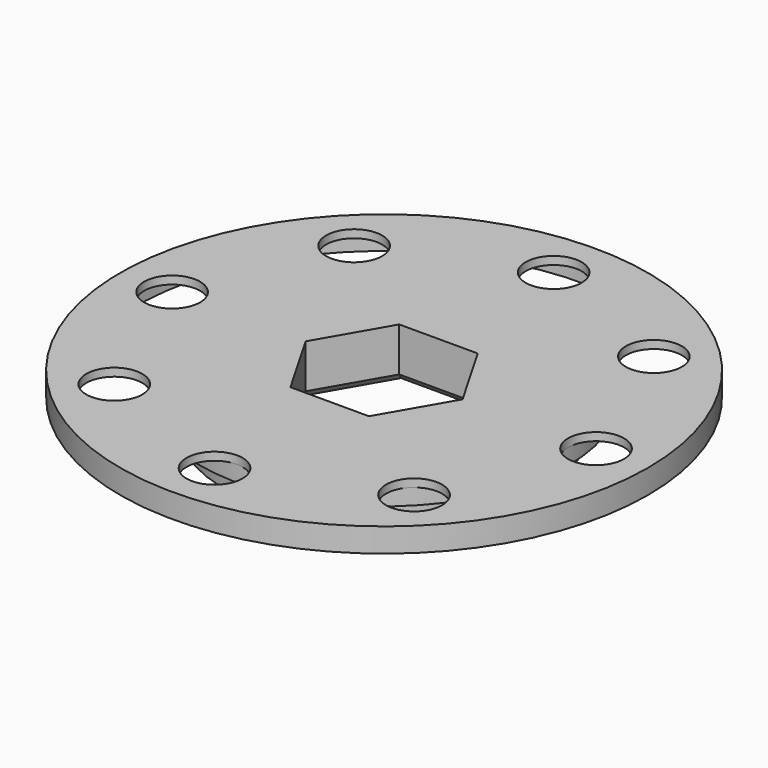
from build123d import *

# Parameters (mm, degrees)
SKETCH_R        = 20
PAD_DEPTH       = 6.5
SKETCH001_R     = 33
SKETCH001_R_2   = 20
PAD001_DEPTH    = 3
SKETCH002_R     = 3.5
POCKET_DEPTH    = 5
SKETCH003_R     = 31
SKETCH003_R_2   = 23
POCKET001_DEPTH = 2
SKETCH004_R     = 17.5
SKETCH004_R_2   = 12.5
POCKET002_DEPTH = 3.5
CHAMFER_SIZE    = 1


with BuildPart() as part:
    # Sketch → Pad (new body)
    with BuildSketch(Plane.XY):
        Circle(SKETCH_R)
        Polygon((4.907477, 8.5), (-4.907477, 8.5), (-9.814955, 0), (-4.907477, -8.5), (4.907477, -8.5), (9.814955, 0), align=None, mode=Mode.SUBTRACT)
    extrude(amount=PAD_DEPTH)

    # Sketch001 (on Face9 of Pad) → Pad001 (join)
    with BuildSketch(Plane.XY.offset(6.5)):
        Circle(SKETCH001_R)
        Circle(SKETCH001_R_2, mode=Mode.SUBTRACT)
    extrude(amount=-PAD001_DEPTH)

    # Sketch002 (on Face3 of Pad001) → Pocket (cut)
    with BuildSketch(Plane(origin=(0, 0, 3.5), x_dir=(1, 0, 0), z_dir=(0, 0, -1))):
        with Locations((0, 26.5)):
            Circle(SKETCH002_R)
        with Locations((18.73833, 18.73833)):
            Circle(SKETCH002_R)
        with Locations((26.5, 0)):
            Circle(SKETCH002_R)
        with Locations((18.73833, -18.73833)):
            Circle(SKETCH002_R)
        with Locations((0, -26.5)):
            Circle(SKETCH002_R)
        with Locations((-18.73833, -18.73833)):
            Circle(SKETCH002_R)
        with Locations((-26.5, 0)):
            Circle(SKETCH002_R)
        with Locations((-18.73833, 18.73833)):
            Circle(SKETCH002_R)
    extrude(amount=-POCKET_DEPTH, mode=Mode.SUBTRACT)

    # Sketch003 (on Face3 of Pocket) → Pocket001 (cut)
    with BuildSketch(Plane(origin=(0, 0, 3.5), x_dir=(1, 0, 0), z_dir=(0, 0, -1))):
        Circle(SKETCH003_R)
        Circle(SKETCH003_R_2, mode=Mode.SUBTRACT)
    extrude(amount=-POCKET001_DEPTH, mode=Mode.SUBTRACT)

    # Sketch004 (on Face2 of Pocket001) → Pocket002 (cut)
    with BuildSketch(Plane(origin=(0, 0, 0), x_dir=(1, 0, 0), z_dir=(0, 0, -1))):
        Circle(SKETCH004_R)
        Circle(SKETCH004_R_2, mode=Mode.SUBTRACT)
    extrude(amount=-POCKET002_DEPTH, mode=Mode.SUBTRACT)

    # Chamfer
    chamfer_edges = [part.edges().sort_by_distance(p)[0] for p in [
        (7.361216, 4.25, 0),
        (0, 8.5, 0),
        (-7.361216, 4.25, 0),
        (-7.361216, -4.25, 0),
        (0, -8.5, 0),
        (7.361216, -4.25, 0),
    ]]
    chamfer(chamfer_edges, length=CHAMFER_SIZE)


solid = part.part
